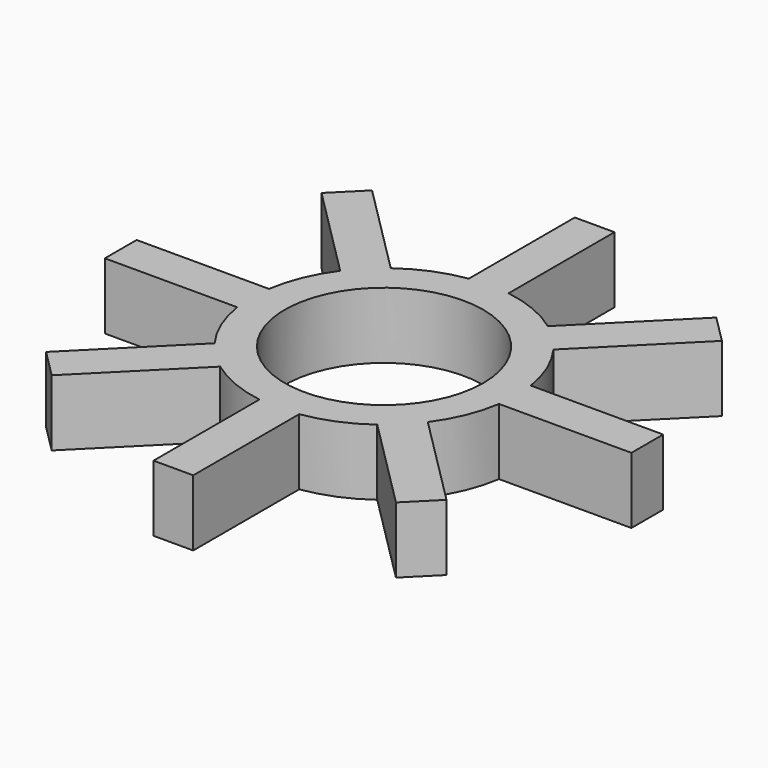
from build123d import *

# Parameters (mm, degrees)
F0_R     = 9.525
F1_DEPTH = 6.35
F2_COUNT = 8


with BuildPart() as f1:
    # F0 (on Top) → F1 (new body)
    with BuildSketch(Plane.XY):
        with BuildLine():
            ThreePointArc((-12.8463400356, 20.6174660121), (-19.2207270902, -1.5690979595), (1.7586599644, 8.0611538545))
            ThreePointArc((1.7586599644, 8.0611538545), (-1.3110882217, 16.3405409091), (-9.0363400356, 20.6174660121))
            Line((-9.0363400356, 20.6174660121), (-12.8463400356, 20.6174660121))
        make_face()
        with Locations((-10.9413400356, 8.0611538545)):
            Circle(F0_R, mode=Mode.SUBTRACT)
        with BuildLine():
            Line((-12.8463400356, 20.6174660121), (-9.0363400356, 20.6174660121))
            ThreePointArc((-9.0363400356, 20.6174660121), (-10.9413400356, 20.7611538545), (-12.8463400356, 20.6174660121))
        make_face()
        with BuildLine():
            ThreePointArc((-12.8463400356, 20.6174660121), (-10.9413400356, 20.7611538545), (-9.0363400356, 20.6174660121))
            Line((-9.0363400356, 20.6174660121), (-9.0363400356, 33.3174660121))
            Line((-9.0363400356, 33.3174660121), (-12.8463400356, 33.3174660121))
            Line((-12.8463400356, 33.3174660121), (-12.8463400356, 20.6174660121))
        make_face()
    extrude(amount=F1_DEPTH)

    # F2: F1 ×8 about axis
    f2_axis = Axis((-10.9413400356, 8.0611538545, 6.35), (0, 0, 1))


with BuildPart() as f1_1:
    add(f1.part)
    for i in range(1, F2_COUNT):
        add(f1.part.rotate(f2_axis, i * 360 / F2_COUNT))


solid = f1_1.part
